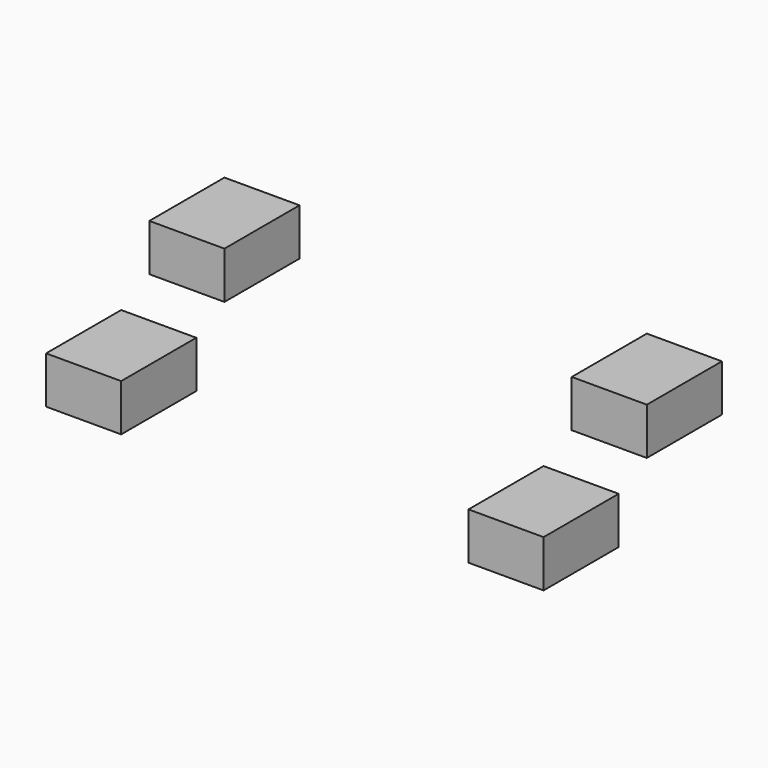
from build123d import *

# Parameters (mm, degrees)
BOX037_W     = 8
BOX037_H     = 10
BOX037_DEPTH = 5
BOX035_W     = 8
BOX035_H     = 10
BOX035_DEPTH = 5
BOX036_W     = 8
BOX036_H     = 10
BOX036_DEPTH = 5
BOX034_W     = 8
BOX034_H     = 10
BOX034_DEPTH = 5


with BuildPart() as obj1:
    # Box037 → Box037 (new body)
    with BuildSketch(Plane(origin=(46.5, -18, 20), x_dir=(1, 0, 0), z_dir=(0, 0, 1))):
        with Locations((4, 5)):
            Rectangle(BOX037_W, BOX037_H)
    extrude(amount=BOX037_DEPTH)


with BuildPart() as obj2:
    # Box035 → Box035 (new body)
    with BuildSketch(Plane(origin=(35.5, -18, 4), x_dir=(1, 0, 0), z_dir=(0, 0, 1))):
        with Locations((4, 5)):
            Rectangle(BOX035_W, BOX035_H)
    extrude(amount=BOX035_DEPTH)


with BuildPart() as obj3:
    # Box036 → Box036 (new body)
    with BuildSketch(Plane(origin=(1.5, -18, 20), x_dir=(1, 0, 0), z_dir=(0, 0, 1))):
        with Locations((4, 5)):
            Rectangle(BOX036_W, BOX036_H)
    extrude(amount=BOX036_DEPTH)


with BuildPart() as obj4:
    # Box034 → Box034 (new body)
    with BuildSketch(Plane(origin=(-9.5, -18, 4), x_dir=(1, 0, 0), z_dir=(0, 0, 1))):
        with Locations((4, 5)):
            Rectangle(BOX034_W, BOX034_H)
    extrude(amount=BOX034_DEPTH)

    # Fusion026015: union obj1, obj2, obj3
    add(obj1.part)
    add(obj2.part)
    add(obj3.part)


solid = obj4.part
